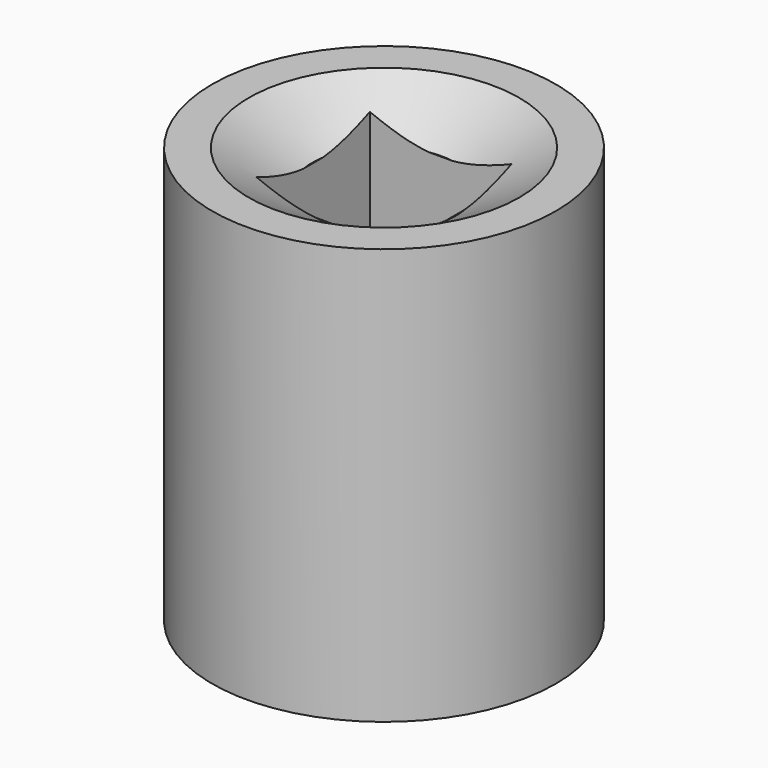
from build123d import *

# Parameters (mm, degrees)
F0_R     = 11.9253
F1_DEPTH = 28.8798
F2_R     = 9.3853
F3_DEPTH = 2.54
F3_TAPER = 60
F4_R     = 9.4996
F5_DEPTH = 16.764
F6_W     = 9.8298
F6_H     = 9.8298
F7_DEPTH = 12.1168001


with BuildPart() as f1:
    # F0 (on Top) → F1 (new body)
    with BuildSketch(Plane.XY):
        Circle(F0_R)
    extrude(amount=F1_DEPTH)

    # F2 (on face) → F3 (cut)
    with BuildSketch(Plane.XY.offset(28.8798)):
        Circle(F2_R)
    extrude(amount=-F3_DEPTH, taper=F3_TAPER, mode=Mode.SUBTRACT)

    # F4 (on face) → F5 (cut)
    with BuildSketch(Plane(origin=(0, 0, 0), x_dir=(1, 0, 0), z_dir=(0, 0, -1))):
        Circle(F4_R)
    extrude(amount=-F5_DEPTH, mode=Mode.SUBTRACT)

    # F6 (on face) → F7 (cut, through all)
    with BuildSketch(Plane(origin=(0, 0, 16.764), x_dir=(1, 0, 0), z_dir=(0, 0, -1))):
        Rectangle(F6_W, F6_H)
    extrude(amount=-F7_DEPTH, mode=Mode.SUBTRACT)


solid = f1.part
